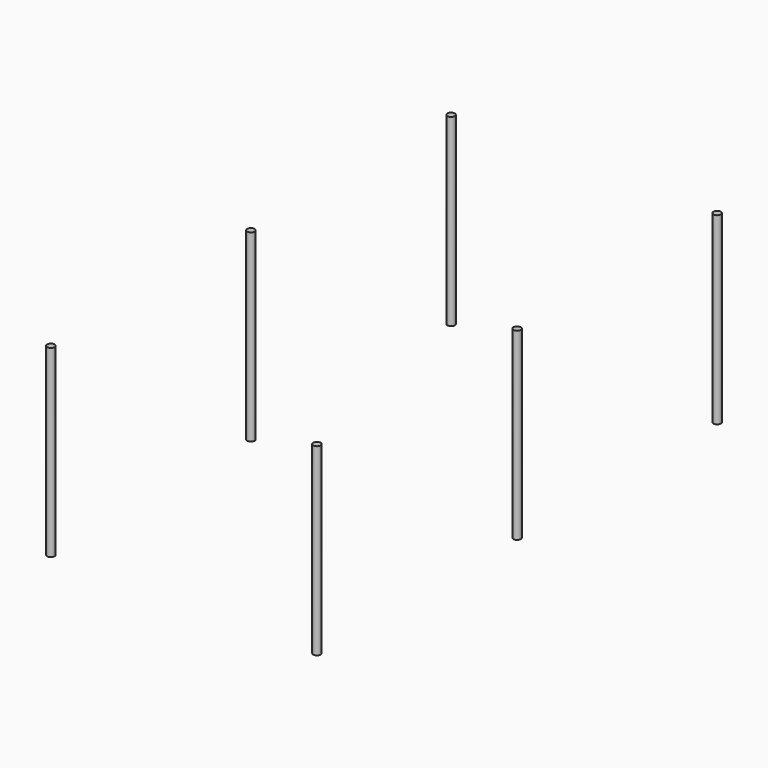
from build123d import *

# Parameters (mm, degrees)
F0_R     = 35
F1_DEPTH = 1730


with BuildPart() as f1:
    # F0 (on Top) → F1 (new body)
    with BuildSketch(Plane.XY):
        with Locations((1250, -2350)):
            Circle(F0_R)
        with Locations((-1250, -2350)):
            Circle(F0_R)
        with Locations((1250, 0)):
            Circle(F0_R)
        with Locations((1250, 2350)):
            Circle(F0_R)
        with Locations((-1250, 0)):
            Circle(F0_R)
        with Locations((-1250, 2350)):
            Circle(F0_R)
    extrude(amount=F1_DEPTH)


solid = f1.part
